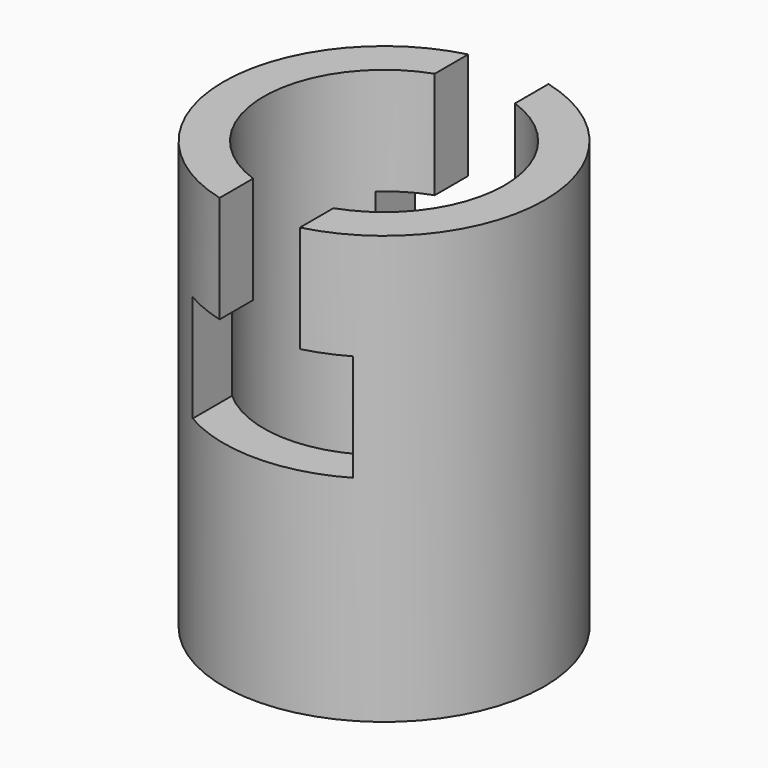
from build123d import *

# Parameters (mm, degrees)
F0_R     = 30
F0_R_2   = 22.5
F1_DEPTH = 80
F3_DEPTH = 30


with BuildPart() as f1:
    # F0 (on Top) → F1 (new body)
    with BuildSketch(Plane.XY):
        Circle(F0_R)
        Circle(F0_R_2, mode=Mode.SUBTRACT)
    extrude(amount=F1_DEPTH)

    # F2 (on Front) → F3 (cut, symmetric)
    with BuildSketch(Plane.XZ):
        Polygon((-7.5, 60), (-15, 60), (-15, 40), (15, 40), (15, 60), (7.5, 60), (7.5, 80), (-7.5, 80), align=None)
    extrude(amount=F3_DEPTH, both=True, mode=Mode.SUBTRACT)


solid = f1.part
